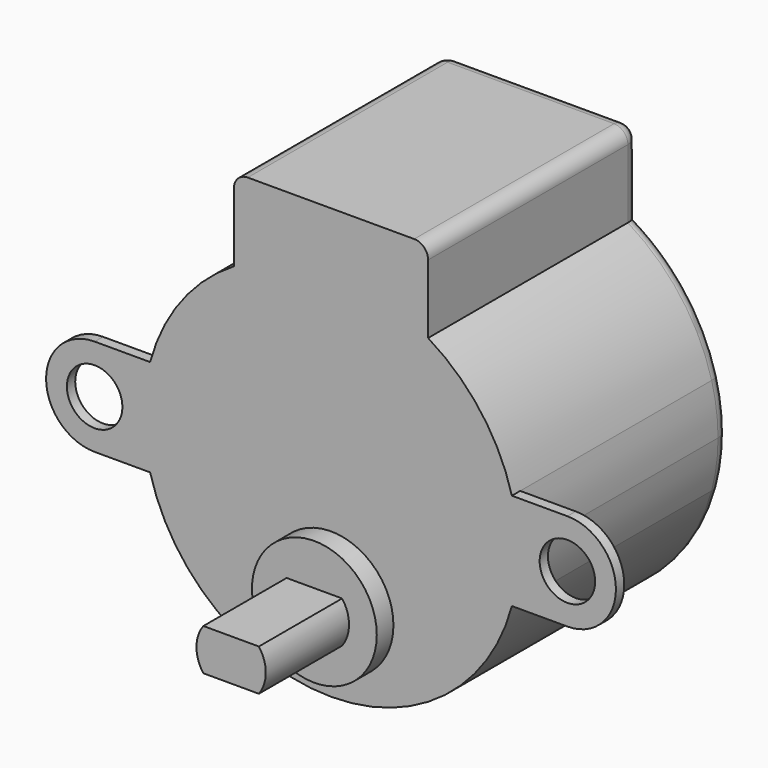
from build123d import *

# Parameters (mm, degrees)
F0_R     = 4.5
F1_DEPTH = 19
F2_DEPTH = 0.75
F3_DEPTH = 1.5
F4_DEPTH = 9
F5_D     = 4
F6_R     = 1


with BuildPart() as f1:
    # F0 (on Front) → F1 (new body)
    with BuildSketch(Plane.XZ):
        with BuildLine():
            ThreePointArc((13.038405, -3.5), (13.384104, -1.765154), (13.5, 0))
            ThreePointArc((13.5, 0), (13.384104, 1.765154), (13.038405, 3.5))
            ThreePointArc((13.038405, 3.5), (10.796225, 8.105031), (7, 11.543396))
            ThreePointArc((7, 11.543396), (0, 13.5), (-7, 11.543396))
            ThreePointArc((-7, 11.543396), (-10.796225, 8.105031), (-13.038405, 3.5))
            ThreePointArc((-13.038405, 3.5), (-13.5, 0), (-13.038405, -3.5))
            ThreePointArc((-13.038405, -3.5), (0, -13.5), (13.038405, -3.5))
        make_face()
        with Locations((0, -7.5)):
            Circle(F0_R, mode=Mode.SUBTRACT)
        with Locations((0, -7.5)):
            Circle(F0_R)
        with BuildLine():
            ThreePointArc((-2, -9), (-2.5, -7.5), (-2, -6))
            Line((-2, -6), (2, -6))
            ThreePointArc((2, -6), (2.5, -7.5), (2, -9))
            Line((2, -9), (-2, -9))
        make_face(mode=Mode.SUBTRACT)
        with BuildLine():
            Line((2, -6), (-2, -6))
            ThreePointArc((-2, -6), (-2.5, -7.5), (-2, -9))
            Line((-2, -9), (2, -9))
            ThreePointArc((2, -9), (2.5, -7.5), (2, -6))
        make_face()
        with BuildLine():
            ThreePointArc((-7, 11.543396), (0, 13.5), (7, 11.543396))
            Line((7, 11.543396), (7, 17.5))
            Line((7, 17.5), (-7, 17.5))
            Line((-7, 17.5), (-7, 11.543396))
        make_face()
    extrude(amount=-F1_DEPTH)

    # F0 (on Front) → F2 (join)
    with BuildSketch(Plane.XZ):
        with BuildLine():
            Line((-17.038405, -3.5), (-13.038405, -3.5))
            ThreePointArc((-13.038405, -3.5), (-13.5, 0), (-13.038405, 3.5))
            Line((-13.038405, 3.5), (-17.038405, 3.5))
            ThreePointArc((-17.038405, 3.5), (-20.538405, 0), (-17.038405, -3.5))
        make_face()
        with BuildLine():
            ThreePointArc((13.038405, 3.5), (13.384104, 1.765154), (13.5, 0))
            ThreePointArc((13.5, 0), (13.384104, -1.765154), (13.038405, -3.5))
            Line((13.038405, -3.5), (17.038405, -3.5))
            ThreePointArc((17.038405, -3.5), (20.538405, 0), (17.038405, 3.5))
            Line((17.038405, 3.5), (13.038405, 3.5))
        make_face()
    extrude(amount=-F2_DEPTH)

    # F0 (on Front) → F3 (join)
    with BuildSketch(Plane.XZ):
        with Locations((0, -7.5)):
            Circle(F0_R)
        with BuildLine():
            ThreePointArc((-2, -9), (-2.5, -7.5), (-2, -6))
            Line((-2, -6), (2, -6))
            ThreePointArc((2, -6), (2.5, -7.5), (2, -9))
            Line((2, -9), (-2, -9))
        make_face(mode=Mode.SUBTRACT)
    extrude(amount=F3_DEPTH)

    # F5 (through all)
    with Locations(Plane.XZ):
        with Locations((-17.038405, 0), (17.038405, 0)):
            Hole(F5_D / 2)

    # F6
    f6_edges = [f1.edges().sort_by_distance(p)[0] for p in [
        (0, 19, -13.5),
        (7, 19, 14.521698),
        (0, 19, 17.5),
        (-7, 19, 14.521698),
        (7, 9.5, 17.5),
        (-7, 9.5, 17.5),
    ]]
    fillet(f6_edges, radius=F6_R)


with BuildPart() as f4:
    # F0 (on Front) → F4 (new body)
    with BuildSketch(Plane.XZ):
        with BuildLine():
            Line((2, -6), (-2, -6))
            ThreePointArc((-2, -6), (-2.5, -7.5), (-2, -9))
            Line((-2, -9), (2, -9))
            ThreePointArc((2, -9), (2.5, -7.5), (2, -6))
        make_face()
    extrude(amount=F4_DEPTH)


solid = Compound([f1.part, f4.part])
